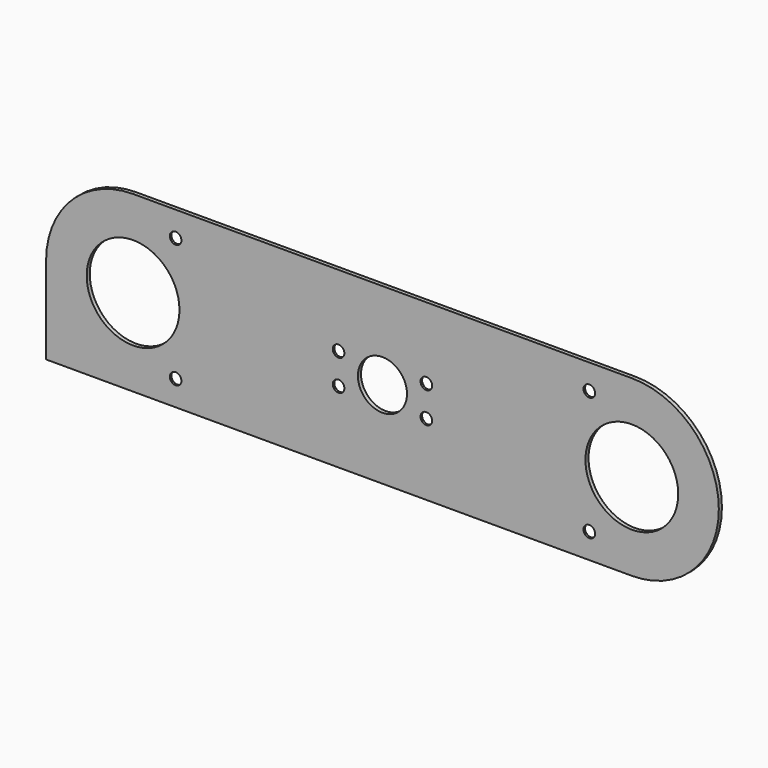
from build123d import *

# Parameters (mm, degrees)
F0_R      = 12
F1_DEPTH  = 1
F3_DEPTH  = 1
F4_R      = 1.5
F5_DEPTH  = 25
F6_SIZE   = 0.5
F7_R      = 6.35
F8_DEPTH  = 25
F9_R      = 1.5
F10_DEPTH = 25
F11_SIZE  = 0.5


with BuildPart() as f1:
    # F0 (on Front) → F1 (new body)
    with BuildSketch(Plane.XZ):
        with BuildLine():
            ThreePointArc((64.5, -22.5), (87, 0), (64.5, 22.5))
            Line((64.5, 22.5), (-64.5, 22.5))
            ThreePointArc((-64.5, 22.5), (-87, 0), (-64.5, -22.5))
            Line((-64.5, -22.5), (64.5, -22.5))
        make_face()
        with Locations((-64.5, 0)):
            Circle(F0_R, mode=Mode.SUBTRACT)
        with Locations((64.5, 0)):
            Circle(F0_R, mode=Mode.SUBTRACT)
    extrude(amount=F1_DEPTH)

    # F2 (on face) → F3 (join)
    with BuildSketch(Plane.XZ.offset(1)):
        Polygon((-87, -22.5), (-64.5, -22.5), (-64.5, -17.4313578755), (-70.5482587218, -14.7617282346), (-78.2682448626, -9.4630774111), (-80.8771923184, 0), (-87, 0), align=None)
    extrude(amount=-F3_DEPTH)

    # F4 (on face) → F5 (cut)
    with BuildSketch(Plane.XZ.offset(1)):
        with Locations((-53.5, 16)):
            Circle(F4_R)
        with Locations((-53.5, -16)):
            Circle(F4_R)
        with Locations((53.5, 16)):
            Circle(F4_R)
        with Locations((53.5, -16)):
            Circle(F4_R)
    extrude(amount=-F5_DEPTH, mode=Mode.SUBTRACT)

    # F6
    f6_edges = [f1.edges().sort_by_distance(p)[0] for p in [
        (-55, 0, 16),
        (-55, 0, -16),
        (52, 0, 16),
        (52, 0, -16),
    ]]
    chamfer(f6_edges, length=F6_SIZE)

    # F7 (on face) → F8 (cut)
    with BuildSketch(Plane.XZ.offset(1)):
        Circle(F7_R)
    extrude(amount=-F8_DEPTH, mode=Mode.SUBTRACT)

    # F9 (on face) → F10 (cut)
    with BuildSketch(Plane.XZ.offset(1)):
        with Locations((-11.35, 4)):
            Circle(F9_R)
        with Locations((-11.35, -4)):
            Circle(F9_R)
        with Locations((11.35, 4)):
            Circle(F9_R)
        with Locations((11.35, -4)):
            Circle(F9_R)
    extrude(amount=-F10_DEPTH, mode=Mode.SUBTRACT)

    # F11
    f11_edges = [f1.edges().sort_by_distance(p)[0] for p in [
        (-12.85, 0, 4),
        (-12.85, 0, -4),
        (9.85, 0, -4),
        (9.85, 0, 4),
    ]]
    chamfer(f11_edges, length=F11_SIZE)


solid = f1.part
